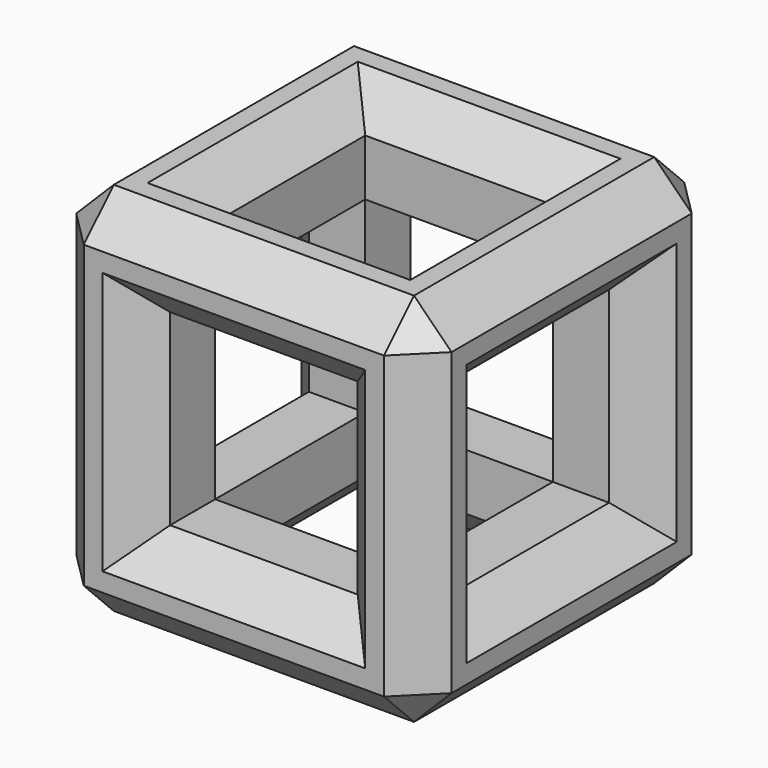
from build123d import *

# Parameters (mm, degrees)
F0_W     = 25.4
F0_H     = 25.4
F0_W_2   = 12.7
F0_H_2   = 12.7
F1_DEPTH = 25.4
F2_W     = 12.7
F2_H     = 12.7
F3_DEPTH = 43.942
F4_W     = 12.7
F4_H     = 12.7
F5_DEPTH = 39.116
F6_SIZE  = 2.54
F7_SIZE  = 2.54


with BuildPart() as f1:
    # F0 (on Top) → F1 (new body)
    with BuildSketch(Plane.XY):
        Rectangle(F0_W, F0_H)
        Rectangle(F0_W_2, F0_H_2, mode=Mode.SUBTRACT)
    extrude(amount=F1_DEPTH)

    # F2 (on Right) → F3 (cut, symmetric)
    with BuildSketch(Plane.YZ):
        with Locations((0, 12.7)):
            Rectangle(F2_W, F2_H)
    extrude(amount=F3_DEPTH, both=True, mode=Mode.SUBTRACT)

    # F4 (on Front) → F5 (cut, symmetric)
    with BuildSketch(Plane.XZ):
        with Locations((0, 12.7)):
            Rectangle(F4_W, F4_H)
    extrude(amount=F5_DEPTH, both=True, mode=Mode.SUBTRACT)

    # F6
    f6_edges = [f1.edges().sort_by_distance(p)[0] for p in [
        (0, -6.35, 0),
        (-6.35, 0, 0),
        (0, 6.35, 0),
        (6.35, 0, 0),
        (12.7, 6.35, 12.7),
        (12.7, 0, 19.05),
        (12.7, -6.35, 12.7),
        (12.7, 0, 6.35),
        (-12.7, -6.35, 12.7),
        (-12.7, 0, 19.05),
        (-12.7, 0, 6.35),
        (-12.7, 6.35, 12.7),
        (0, -6.35, 25.4),
        (-6.35, 0, 25.4),
        (0, 6.35, 25.4),
        (6.35, 0, 25.4),
        (6.35, 12.7, 12.7),
        (0, 12.7, 19.05),
        (0, 12.7, 6.35),
        (-6.35, 12.7, 12.7),
        (0, -12.7, 19.05),
        (6.35, -12.7, 12.7),
        (0, -12.7, 6.35),
        (-6.35, -12.7, 12.7),
    ]]
    chamfer(f6_edges, length=F6_SIZE)

    # F7
    f7_edges = [f1.edges().sort_by_distance(p)[0] for p in [
        (12.7, 0, 0),
        (12.7, -12.7, 12.7),
        (0, -12.7, 0),
        (0, -12.7, 25.4),
        (-12.7, -12.7, 12.7),
        (-12.7, 0, 0),
        (0, 12.7, 0),
        (12.7, 12.7, 12.7),
        (12.7, 0, 25.4),
        (0, 12.7, 25.4),
        (-12.7, 0, 25.4),
        (-12.7, 12.7, 12.7),
    ]]
    chamfer(f7_edges, length=F7_SIZE)


solid = f1.part
